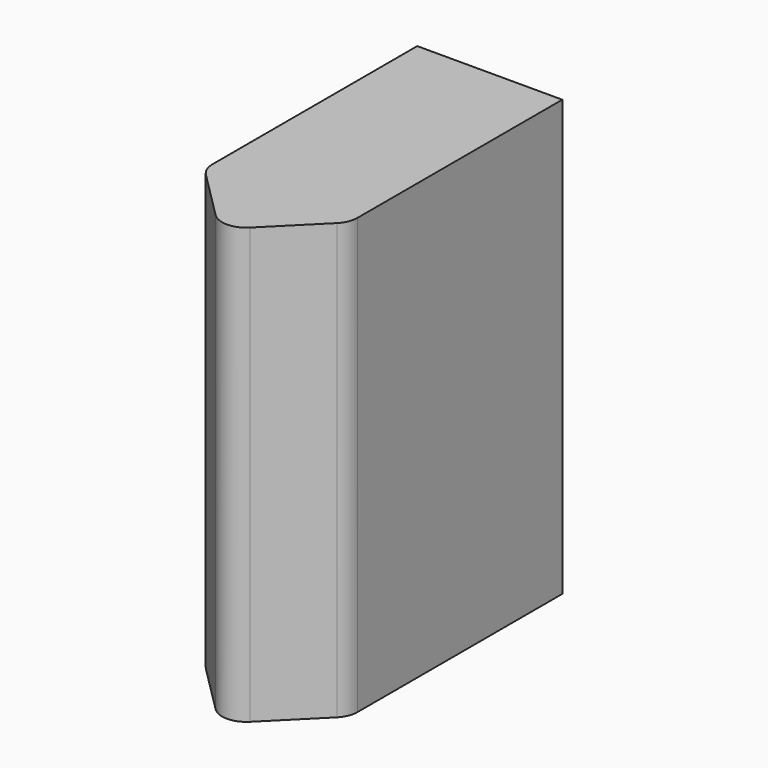
from build123d import *

# Parameters (mm, degrees)
F1_DEPTH = 457.2
F2_R     = 25.4
F3_T     = -1.5875


with BuildPart() as f1:
    # F0 (on Top) → F1 (new body)
    with BuildSketch(Plane.XY):
        Polygon((76.2, -101.6), (76.2, 177.8), (-76.2, 177.8), (-76.2, -101.6), (0, -177.8), align=None)
    extrude(amount=F1_DEPTH)

    # F2
    f2_edges = [f1.edges().sort_by_distance(p)[0] for p in [
        (0, -177.8, 228.6),
        (76.2, -101.6, 228.6),
        (-76.2, -101.6, 228.6),
    ]]
    fillet(f2_edges, radius=F2_R)

    # F3
    f3_openings = [f1.faces().sort_by_distance(p)[0] for p in [
        (0, 18.896629, 0),
    ]]
    offset(amount=F3_T, openings=f3_openings)


solid = f1.part
